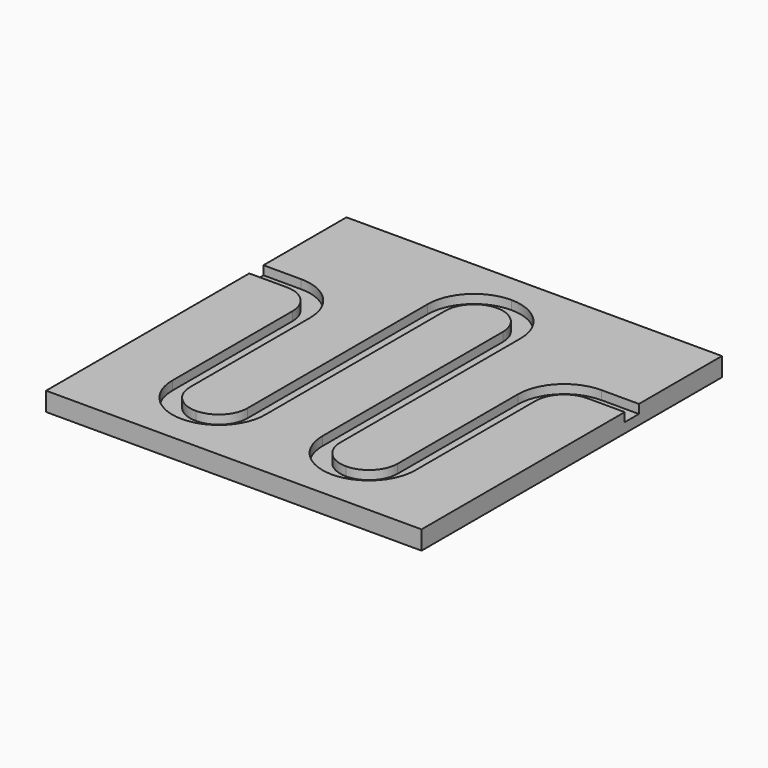
from build123d import *

# Parameters (mm, degrees)
F0_W     = 127
F0_H     = 6.35
F1_DEPTH = 127
F3_W     = 6
F3_H     = 3


with BuildPart() as f1:
    # F0 (on Front) → F1 (new body)
    with BuildSketch(Plane.XZ):
        with Locations((63.5, 3.175)):
            Rectangle(F0_W, F0_H)
    extrude(amount=-F1_DEPTH)

    # F4: sweep along a path in F2
    with BuildLine(Plane.XY.offset(6.35)) as f4_path:
        Line((0, 88.9), (12.7, 88.9))
        ThreePointArc((12.7, 88.9), (21.6802561211, 85.1802561211), (25.4, 76.2))
        Line((25.4, 76.2), (25.4, 25.4))
        ThreePointArc((25.4, 25.4), (29.1197438789, 16.4197438789), (38.1, 12.7))
        ThreePointArc((38.1, 12.7), (47.0802561211, 16.4197438789), (50.8, 25.4))
        Line((50.8, 25.4), (50.8, 76.2))
        Line((50.8, 76.2), (50.8, 101.6))
        ThreePointArc((50.8, 101.6), (54.5197438789, 110.5802561211), (63.5, 114.3))
        ThreePointArc((63.5, 114.3), (72.4802561211, 110.5802561211), (76.2, 101.6))
        Line((76.2, 101.6), (76.2, 76.2))
        Line((76.2, 76.2), (76.2, 25.4))
        ThreePointArc((76.2, 25.4), (79.9197438789, 16.4197438789), (88.9, 12.7))
        ThreePointArc((88.9, 12.7), (97.8802561211, 16.4197438789), (101.6, 25.4))
        Line((101.6, 25.4), (101.6, 76.2))
        ThreePointArc((101.6, 76.2), (105.3197438789, 85.1802561211), (114.3, 88.9))
        Line((114.3, 88.9), (127, 88.9))
    # F3 (on face) → F4 (sweep, cut)
    with BuildSketch(Plane(origin=(0, 0, 0), x_dir=(0, -1, 0), z_dir=(-1, 0, 0))):
        with Locations((-88.9047980309, 4.85)):
            Rectangle(F3_W, F3_H)
    sweep(path=f4_path.line, mode=Mode.SUBTRACT)


solid = f1.part
